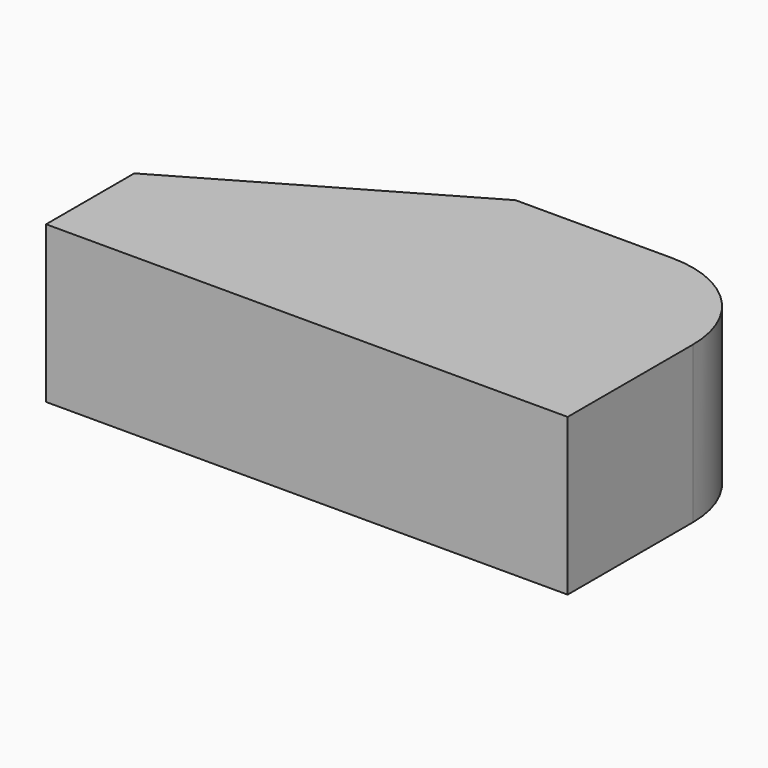
from build123d import *

# Parameters (mm, degrees)
CYLINDER_R       = 5
CYLINDER_DEPTH   = 60
EXTRUDE_DEPTH    = 30
EXTRUDE001_DEPTH = 30


with BuildPart() as cylinder:
    # Cylinder → Cylinder (new body)
    with BuildSketch(Plane(origin=(65, -5, 15), x_dir=(1, 0, 0), z_dir=(0, 1, 0))):
        Circle(CYLINDER_R)
    extrude(amount=CYLINDER_DEPTH)


with BuildPart() as obj1:
    # Face → Extrude (new body)
    with BuildSketch(Plane(origin=(54.805687, 21.932528, 0), x_dir=(0, -1, 0), z_dir=(0, 0, -1))):
        with BuildLine():
            Line((0.800042, 54.805687), (-28.067472, 4.805687))
            Line((-28.067472, 4.805687), (-28.067472, -25.194313))
            ThreePointArc((-28.067472, -25.194313), (-22.209608, -39.336449), (-8.067472, -45.194313))
            Line((-8.067472, -45.194313), (21.932528, -45.194313))
            Line((21.932528, -45.194313), (21.932528, 54.805687))
            Line((21.932528, 54.805687), (0.800042, 54.805687))
        make_face()
    extrude(amount=-EXTRUDE_DEPTH)

    # Cut: cut Cylinder
    add(cylinder.part, mode=Mode.SUBTRACT)


with BuildPart() as obj2:
    # Sketch → Extrude001 (new body)
    with BuildSketch(Plane.XY):
        with BuildLine():
            Line((0, 0), (100, 0))
            Line((100, 0), (100, 30))
            ThreePointArc((100, 30), (94.142136, 44.142136), (80, 50))
            Line((50, 50), (80, 50))
            Line((0, 21.132487), (50, 50))
            Line((0, 21.132487), (0, 0))
        make_face()
    extrude(amount=EXTRUDE001_DEPTH)


solid = Compound([obj1.part, obj2.part])
